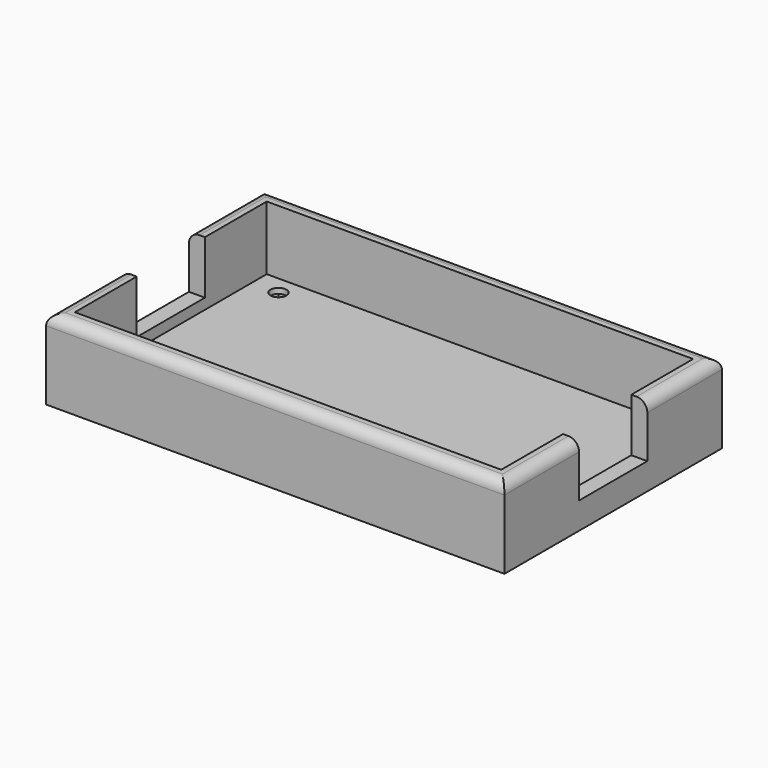
from build123d import *

# Parameters (mm, degrees)
F0_W     = 86
F0_H     = 51
F0_W_2   = 80
F0_H_2   = 45
F0_R     = 1.5
F1_DEPTH = 3
F2_DEPTH = 15
F3_W     = 3
F3_H     = 16
F4_DEPTH = 10
F6_R     = 1.5
F7_DEPTH = 2
F8_R     = 2


with BuildPart() as f1:
    # F0 (on Top) → F1 (new body)
    with BuildSketch(Plane.XY):
        Rectangle(F0_W, F0_H)
        Rectangle(F0_W_2, F0_H_2, mode=Mode.SUBTRACT)
        Rectangle(F0_W_2, F0_H_2)
        with Locations((-35, -19)):
            Circle(F0_R, mode=Mode.SUBTRACT)
        with Locations((35, -19)):
            Circle(F0_R, mode=Mode.SUBTRACT)
        with Locations((-35, 19)):
            Circle(F0_R, mode=Mode.SUBTRACT)
        with Locations((35, 19)):
            Circle(F0_R, mode=Mode.SUBTRACT)
    extrude(amount=F1_DEPTH)

    # F0 (on Top) → F2 (join)
    with BuildSketch(Plane.XY):
        Rectangle(F0_W, F0_H)
        Rectangle(F0_W_2, F0_H_2, mode=Mode.SUBTRACT)
    extrude(amount=F2_DEPTH)

    # F3 (on face) → F4 (cut)
    with BuildSketch(Plane.XY.offset(15)):
        with Locations((-41.5, 0)):
            Rectangle(F3_W, F3_H)
        with Locations((41.5, 0)):
            Rectangle(F3_W, F3_H)
    extrude(amount=-F4_DEPTH, mode=Mode.SUBTRACT)

    # F6 (on face) → F7 (cut)
    with BuildSketch(Plane(origin=(0, 0, 0), x_dir=(1, 0, 0), z_dir=(0, 0, -1))):
        Polygon((-34.1939000371, 15.9285937776), (-31.9370342046, 18.1623999346), (-32.7431341675, 21.2338061571), (-35.8060999629, 22.0714062224), (-38.0629657954, 19.8376000654), (-37.2568658325, 16.7661938429), align=None)
        with Locations((-35, 19)):
            Circle(F6_R, mode=Mode.SUBTRACT)
        Polygon((-33.8121897672, -21.9449007087), (-31.8557360582, -19.4437765179), (-33.043546291, -16.4988758092), (-36.1878102328, -16.0550992913), (-38.1442639418, -18.5562234821), (-36.956453709, -21.5011241908), align=None)
        with Locations((-35, -19)):
            Circle(F6_R, mode=Mode.SUBTRACT)
        Polygon((35.6810371117, -22.1015353917), (38.0265269958, -19.9609722562), (37.3454898841, -16.8594368645), (34.3189628883, -15.8984646083), (31.9734730042, -18.0390277438), (32.6545101159, -21.1405631355), align=None)
        with Locations((35, -19)):
            Circle(F6_R, mode=Mode.SUBTRACT)
        Polygon((35.0691377179, 15.8253262673), (37.7839169602, 17.4725381537), (37.7147792423, 20.6472118864), (34.9308622821, 22.1746737327), (32.2160830398, 20.5274618463), (32.2852207577, 17.3527881136), align=None)
        with Locations((35, 19)):
            Circle(F6_R, mode=Mode.SUBTRACT)
    extrude(amount=-F7_DEPTH, mode=Mode.SUBTRACT)

    # F8
    f8_edges = [f1.edges().sort_by_distance(p)[0] for p in [
        (0, -25.5, 15),
        (0, 25.5, 15),
        (43, 16.75, 15),
        (43, -16.75, 15),
        (-43, 16.75, 15),
        (-43, -16.75, 15),
    ]]
    fillet(f8_edges, radius=F8_R)


solid = f1.part
